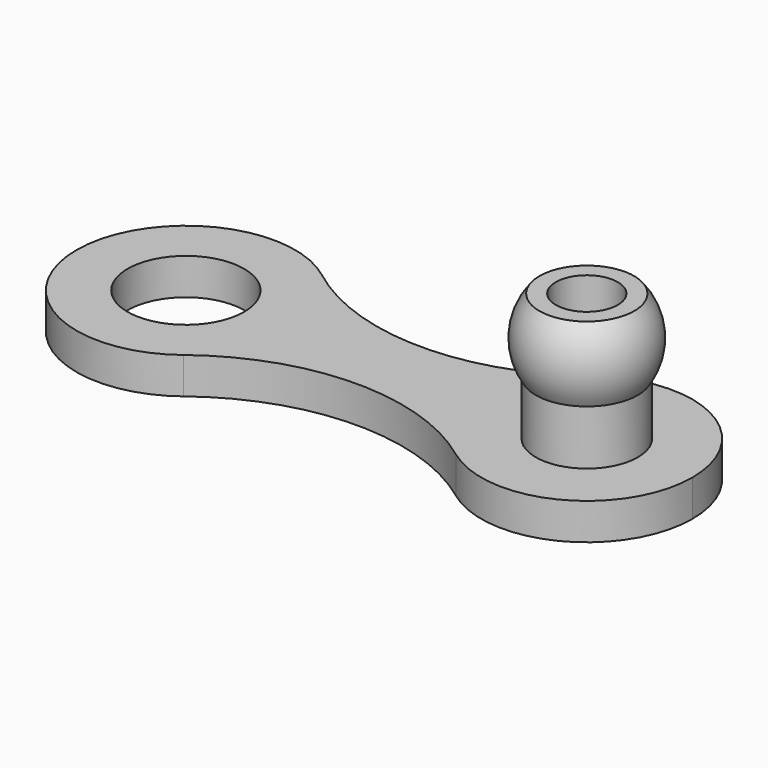
from build123d import *

# Parameters (mm, degrees)
F0_R     = 1.4
F3_DEPTH = 1.5
F4_R     = 1.6
F4_R_2   = 1.4
F5_DEPTH = 1
F6_R     = 0.85
F7_DEPTH = 2


with BuildPart() as f2:
    # F1 (on Front) → F2 (revolve)
    with BuildSketch(Plane.XZ):
        with BuildLine():
            Line((-1.4, 0), (0, 0))
            Line((0, 0), (0, 2))
            Line((0, 2), (-1.3, 2))
            ThreePointArc((-1.3, 2), (-1.6800297616, 1.0165014881), (-1.4, 0))
        make_face()
    revolve(axis=Axis((0, 0, 1), (0, 0, 1)))

    # F0 (on Top) → F3 (join)
    with BuildSketch(Plane.XY):
        Circle(F0_R)
    extrude(amount=-F3_DEPTH)

    # F4 (on face) → F5 (join)
    with BuildSketch(Plane(origin=(0, 0, -1.5), x_dir=(1, 0, 0), z_dir=(0, 0, -1))):
        with BuildLine():
            ThreePointArc((-8, 0), (-8.3079577623, 1.323974543), (-9.168605727, 2.3761302609))
            ThreePointArc((-9.168605727, 2.3761302609), (-14, 0), (-9.168605727, -2.3761302609))
            ThreePointArc((-9.168605727, -2.3761302609), (-8.3079577623, -1.323974543), (-8, 0))
        make_face()
        with Locations((-11, 0)):
            Circle(F4_R, mode=Mode.SUBTRACT)
        with BuildLine():
            ThreePointArc((-1.7369017855, -2.3223204317), (1.2986502266, -2.592972732), (2.9, 0))
            ThreePointArc((2.9, 0), (1.2986502266, 2.592972732), (-1.7369017855, 2.3223204317))
            ThreePointArc((-1.7369017855, 2.3223204317), (-2.9, 0), (-1.7369017855, -2.3223204317))
        make_face()
        Circle(F4_R_2, mode=Mode.SUBTRACT)
        with BuildLine():
            ThreePointArc((-1.7369017855, -2.3223204317), (-2.9, 0), (-1.7369017855, 2.3223204317))
            ThreePointArc((-1.7369017855, 2.3223204317), (-5.4618104216, 1.0984045098), (-9.168605727, 2.3761302609))
            ThreePointArc((-9.168605727, 2.3761302609), (-8.3079577623, 1.323974543), (-8, 0))
            ThreePointArc((-8, 0), (-8.3079577623, -1.323974543), (-9.168605727, -2.3761302609))
            ThreePointArc((-9.168605727, -2.3761302609), (-5.4618104216, -1.0984045098), (-1.7369017855, -2.3223204317))
        make_face()
        Circle(F4_R_2)
    extrude(amount=F5_DEPTH)

    # F6 (on face) → F7 (cut)
    with BuildSketch(Plane.XY.offset(2)):
        Circle(F6_R)
    extrude(amount=-F7_DEPTH, mode=Mode.SUBTRACT)


solid = f2.part
